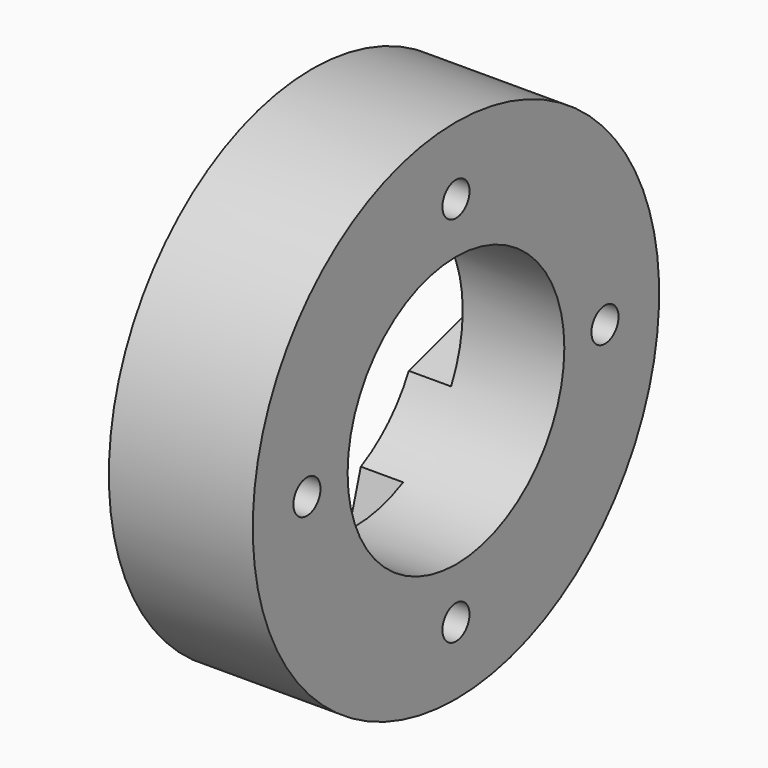
from build123d import *

# Parameters (mm, degrees)
SKETCH093_R             = 6.5
SKETCH093_R_2           = 2.5
PAD050_DEPTH            = 6
SKETCH094_R             = 5
SKETCH094_R_2           = 2.522437
PAD051_DEPTH            = 7
SKETCH095_R             = 6.5
SKETCH095_R_2           = 2.522437
PAD052_DEPTH            = 1
SKETCH096_R             = 1
PAD053_DEPTH            = 7
BODY035_ROLL_ANGLE      = 135
BODY035_PLACEMENT_ANGLE = 180
SKETCH100_R             = 15
PAD054_DEPTH            = 8.5
POCKET031_DEPTH         = 2.5
POLARPATTERN023_COUNT   = 4
SKETCH097_R             = 1
HOLE008_DEPTH           = 25
POLARPATTERN022_COUNT   = 4
SKETCH098_R             = 4
POCKET030_DEPTH         = 6.001
BODY036_PLACEMENT_ANGLE = 90
SKETCH102_R             = 8
POCKET032_DEPTH         = 8.501


with BuildPart() as polea007:
    # Sketch093 → Pad050 (new body)
    with BuildSketch(Plane.YZ):
        Circle(SKETCH093_R)
        Circle(SKETCH093_R_2, mode=Mode.SUBTRACT)
    extrude(amount=PAD050_DEPTH)

    # Sketch094 (on Face3 of Pad050) → Pad051 (join)
    with BuildSketch(Plane(origin=(0, 0, 0), x_dir=(0, 1, 0), z_dir=(-1, 0, 0))):
        Circle(SKETCH094_R)
        Circle(SKETCH094_R_2, mode=Mode.SUBTRACT)
    extrude(amount=PAD051_DEPTH)

    # Sketch095 (on Face6 of Pad051) → Pad052 (join)
    with BuildSketch(Plane(origin=(-7, 0, 0), x_dir=(0, 1, 0), z_dir=(-1, 0, 0))):
        Circle(SKETCH095_R)
        Circle(SKETCH095_R_2, mode=Mode.SUBTRACT)
    extrude(amount=PAD052_DEPTH)

    # Sketch096 → Pad053 (join)
    with BuildSketch(Plane.XZ):
        with Locations((3, 0)):
            Circle(SKETCH096_R)
    extrude(amount=PAD053_DEPTH)


with BuildPart() as polea007_1:
    # Body035 roll: moved
    add(polea007.part.rotate(Axis((0, 0, 0), (1, 0, 0)), BODY035_ROLL_ANGLE))


with BuildPart() as polea007_2:
    # Body035 placement: moved
    add(polea007_1.part.rotate(Axis((0, 0, 0), (0, 0, 1)), BODY035_PLACEMENT_ANGLE))


with BuildPart() as body037:
    # Sketch100 → Pad054 (new body)
    with BuildSketch(Plane.XY):
        Circle(SKETCH100_R)
    extrude(amount=PAD054_DEPTH)

    # Sketch099 (on Face3 of Pad054) → Pocket031 (cut)
    with BuildSketch(Plane.XY.offset(8.5)):
        with BuildLine():
            ThreePointArc((-5.26869, 1.578261), (0, -5.5), (5.26869, 1.578261))
            Line((2.107476, 12.131304), (5.26869, 1.578261))
            ThreePointArc((2.107476, 12.131304), (0, 13.7), (-2.107476, 12.131304))
            Line((-2.107476, 12.131304), (-5.26869, 1.578261))
        make_face()
    pocket031 = extrude(amount=-POCKET031_DEPTH, mode=Mode.SUBTRACT)

    # PolarPattern023: Pocket031 ×4 about axis
    polarpattern023_axis = Axis((0, 0, 8.5), (0, 0, 1))
    for i in range(1, POLARPATTERN023_COUNT):
        add(pocket031.rotate(polarpattern023_axis, i * 360 / POLARPATTERN023_COUNT), mode=Mode.SUBTRACT)

    # Sketch097 (on Face21 of PolarPattern023) → Hole008 (cut)
    with BuildSketch(Plane.XY.offset(6)):
        with Locations((0, 11)):
            Circle(SKETCH097_R)
    hole008 = extrude(amount=-HOLE008_DEPTH, mode=Mode.SUBTRACT)

    # PolarPattern022: Hole008 ×4 about axis
    polarpattern022_axis = Axis((0, 0, 6), (0, 0, 1))
    for i in range(1, POLARPATTERN022_COUNT):
        add(hole008.rotate(polarpattern022_axis, i * 360 / POLARPATTERN022_COUNT), mode=Mode.SUBTRACT)

    # Sketch098 (on Face25 of PolarPattern022) → Pocket030 (cut, through all)
    with BuildSketch(Plane.XY.offset(6)):
        Circle(SKETCH098_R)
    extrude(amount=-POCKET030_DEPTH, mode=Mode.SUBTRACT)


with BuildPart() as body037_1:
    # Body036 placement: moved
    add(body037.part.moved(Location((0, 0, 0))).rotate(Axis((0, 0, 0), (0, -1, 0)), BODY036_PLACEMENT_ANGLE))

    # Cut006: cut polea007
    add(polea007_2.part, mode=Mode.SUBTRACT)

    # Sketch102 (on Face3 of BaseFeature006) → Pocket032 (cut, through all)
    with BuildSketch(Plane(origin=(-8.5, 0, 0), x_dir=(0, -1, 0), z_dir=(-1, 0, 0))):
        Circle(SKETCH102_R)
    extrude(amount=-POCKET032_DEPTH, mode=Mode.SUBTRACT)


solid = body037_1.part
